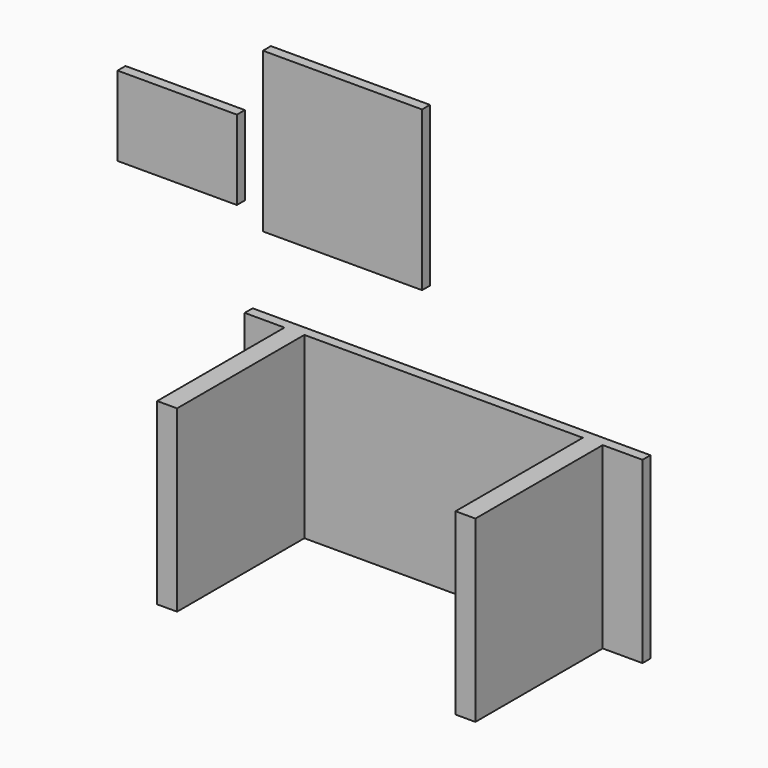
from build123d import *

# Parameters (mm, degrees)
F0_W     = 38.1
F0_H     = 25.4
F0_W_2   = 50.8
F0_H_2   = 50.8
F0_W_3   = 127
F0_H_3   = 57.15
F1_DEPTH = 3.175
F2_W     = 6.35
F2_H     = 57.15
F3_DEPTH = 50.8


with BuildPart() as f1:
    # F0 (on Front) → F1 (new body)
    with BuildSketch(Plane.XZ):
        with Locations((-54.764102, 31.482835)):
            Rectangle(F0_W, F0_H)
        with Locations((-2.000252, 39.470079)):
            Rectangle(F0_W_2, F0_H_2)
        with Locations((30.276334, -39.287146)):
            Rectangle(F0_W_3, F0_H_3)
    extrude(amount=F1_DEPTH)

    # F2 (on face) → F3 (join)
    with BuildSketch(Plane.XZ.offset(3.175)):
        with Locations((-17.348666, -39.287146)):
            Rectangle(F2_W, F2_H)
        with Locations((77.901334, -39.287146)):
            Rectangle(F2_W, F2_H)
    extrude(amount=F3_DEPTH)


solid = f1.part
